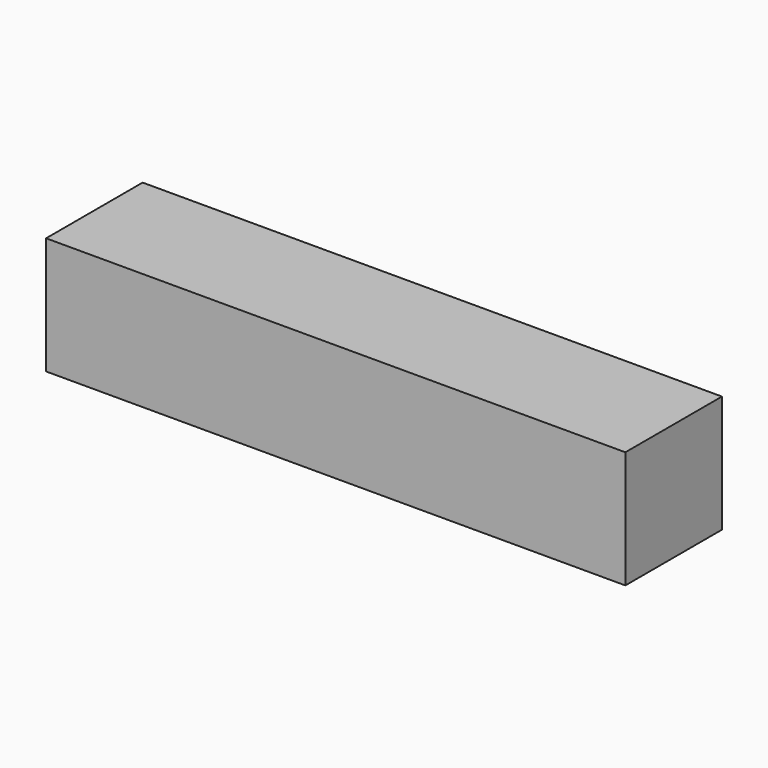
from build123d import *

# Parameters (mm, degrees)
F1_DEPTH = 5
F2_W     = 160
F2_H     = 2.5
F3_DEPTH = 25
F4_W     = 35
F4_H     = 30
F5_DEPTH = 4
F6_W     = 35
F6_H     = 30
F7_DEPTH = 4
F8_W     = 168
F8_H     = 35
F9_DEPTH = 4


with BuildPart() as f1:
    # F0 (on Top) → F1 (new body)
    with BuildSketch(Plane.XY):
        with BuildLine():
            Line((-60.891874, 20), (-60.891874, 0))
            Line((-60.891874, 0), (-60.891874, -15))
            Line((-60.891874, -15), (99.108126, -15))
            Line((99.108126, -15), (99.108126, 0))
            Line((99.108126, 0), (99.108126, 20))
            Line((99.108126, 20), (95.108126, 20))
            ThreePointArc((95.108126, 20), (79.108126, 4), (63.108126, 20))
            Line((63.108126, 20), (55.108126, 20))
            ThreePointArc((55.108126, 20), (39.108126, 4), (23.108126, 20))
            Line((23.108126, 20), (15.108126, 20))
            ThreePointArc((15.108126, 20), (-0.891874, 4), (-16.891874, 20))
            Line((-16.891874, 20), (-24.891874, 20))
            ThreePointArc((-24.891874, 20), (-40.891874, 4), (-56.891874, 20))
            Line((-56.891874, 20), (-60.891874, 20))
        make_face()
    extrude(amount=F1_DEPTH)

    # F2 (on face) → F3 (join)
    with BuildSketch(Plane.XY.offset(5)):
        with Locations((19.108126, -13.75)):
            Rectangle(F2_W, F2_H)
    extrude(amount=F3_DEPTH)

    # F4 (on face) → F5 (join)
    with BuildSketch(Plane.YZ.offset(99.108126)):
        with Locations((2.5, 15)):
            Rectangle(F4_W, F4_H)
    extrude(amount=F5_DEPTH)

    # F6 (on face) → F7 (join)
    with BuildSketch(Plane(origin=(-60.891874, 0, 0), x_dir=(0, -1, 0), z_dir=(-1, 0, 0))):
        with Locations((-2.5, 15)):
            Rectangle(F6_W, F6_H)
    extrude(amount=F7_DEPTH)

    # F8 (on face) → F9 (join)
    with BuildSketch(Plane.XY.offset(30)):
        with Locations((19.108126, 2.5)):
            Rectangle(F8_W, F8_H)
    extrude(amount=F9_DEPTH)


solid = f1.part
